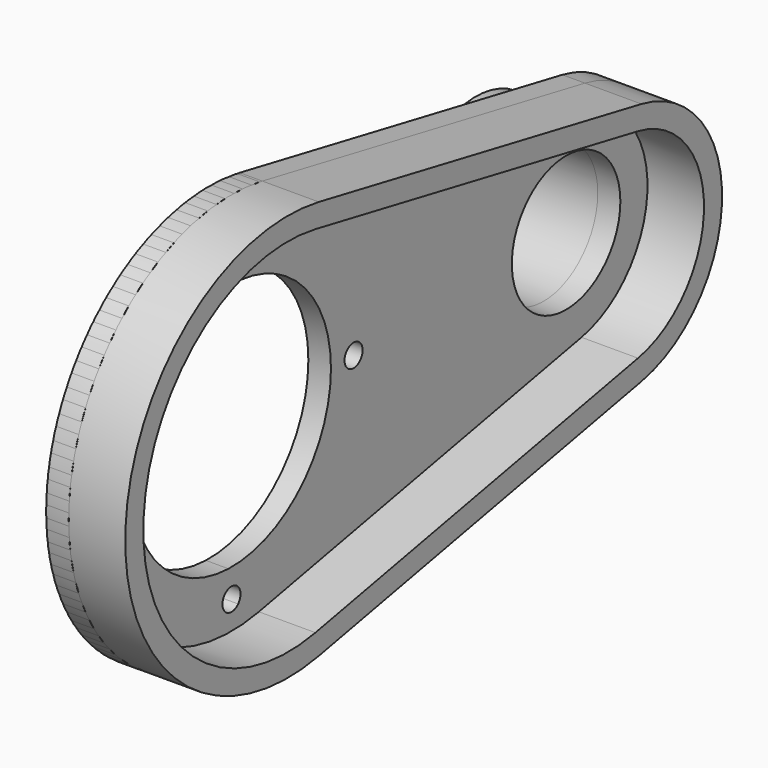
from build123d import *

# Parameters (mm, degrees)
F1_START = -30
F0_R     = 40
F0_R_2   = 30
F1_DEPTH = 40
F2_START = -30
F0_R_3   = 90
F0_R_4   = 5
F0_R_5   = 55
F2_DEPTH = 10
F4_START = -30
F3_R     = 5
F3_R_2   = 55
F3_R_3   = 30
F4_DEPTH = 10
F6_START = -5
F6_DEPTH = 25


with BuildPart() as f1:
    # F0 (on Right) → F1 (new body)
    with BuildSketch(Plane.YZ.offset(F1_START)):
        Circle(F0_R)
        Circle(F0_R_2, mode=Mode.SUBTRACT)
    extrude(amount=-F1_DEPTH)


with BuildPart() as f2:
    # F0 (on Right) → F2 (new body)
    with BuildSketch(Plane.YZ.offset(F2_START)):
        with Locations((-185, 0)):
            Circle(F0_R_3)
        with Locations((-185, -67.5)):
            Circle(F0_R_4, mode=Mode.SUBTRACT)
        with Locations((-252.5, 0)):
            Circle(F0_R_4, mode=Mode.SUBTRACT)
        with Locations((-185, 0)):
            Circle(F0_R_5, mode=Mode.SUBTRACT)
        with Locations((-185, 67.5)):
            Circle(F0_R_4, mode=Mode.SUBTRACT)
        with Locations((-117.5, 0)):
            Circle(F0_R_4, mode=Mode.SUBTRACT)
    extrude(amount=-F2_DEPTH)


with BuildPart() as f4:
    # F3 (on Right) → F4 (new body)
    with BuildSketch(Plane.YZ.offset(F4_START)):
        with BuildLine():
            Line((-167.960185218, -88.3744513143), (10.4060640771, -54.0066091365))
            ThreePointArc((10.4060640771, -54.0066091365), (55, 0), (10.4060640771, 54.0066091365))
            Line((10.4060640771, 54.0066091365), (-167.960185218, 88.3744513143))
            ThreePointArc((-167.960185218, 88.3744513143), (-274.9882900715, 0), (-167.960185218, -88.3744513143))
        make_face()
        with Locations((-184.9882900715, -67.4882900715)):
            Circle(F3_R, mode=Mode.SUBTRACT)
        with Locations((-252.476580143, 0)):
            Circle(F3_R, mode=Mode.SUBTRACT)
        with Locations((-184.9882900715, 0)):
            Circle(F3_R_2, mode=Mode.SUBTRACT)
        with Locations((-117.5, 0)):
            Circle(F3_R, mode=Mode.SUBTRACT)
        with Locations((-184.9882900715, 67.4882900715)):
            Circle(F3_R, mode=Mode.SUBTRACT)
        Circle(F3_R_3, mode=Mode.SUBTRACT)
    extrude(amount=-F4_DEPTH)


with BuildPart() as f6:
    # F5 (on Right) → F6 (new body)
    with BuildSketch(Plane.YZ.offset(F6_START)):
        with BuildLine():
            ThreePointArc((-167.960185218, 88.3744513143), (-274.9882900715, 0), (-167.960185218, -88.3744513143))
            Line((-167.960185218, -88.3744513143), (10.4060640771, -54.0066091365))
            ThreePointArc((10.4060640771, -54.0066091365), (55, 0), (10.4060640771, 54.0066091365))
            Line((10.4060640771, 54.0066091365), (-167.960185218, 88.3744513143))
        make_face()
        with BuildLine():
            Line((8.5140524267, -44.1872256571), (-169.8521968684, -78.5550678349))
            ThreePointArc((-169.8521968684, -78.5550678349), (-264.9882900715, 0), (-169.8521968684, 78.5550678349))
            Line((-169.8521968684, 78.5550678349), (8.5140524267, 44.1872256571))
            ThreePointArc((8.5140524267, 44.1872256571), (45, 0), (8.5140524267, -44.1872256571))
        make_face(mode=Mode.SUBTRACT)
    extrude(amount=-F6_DEPTH)


solid = Compound([f1.part, f2.part, f4.part, f6.part])
